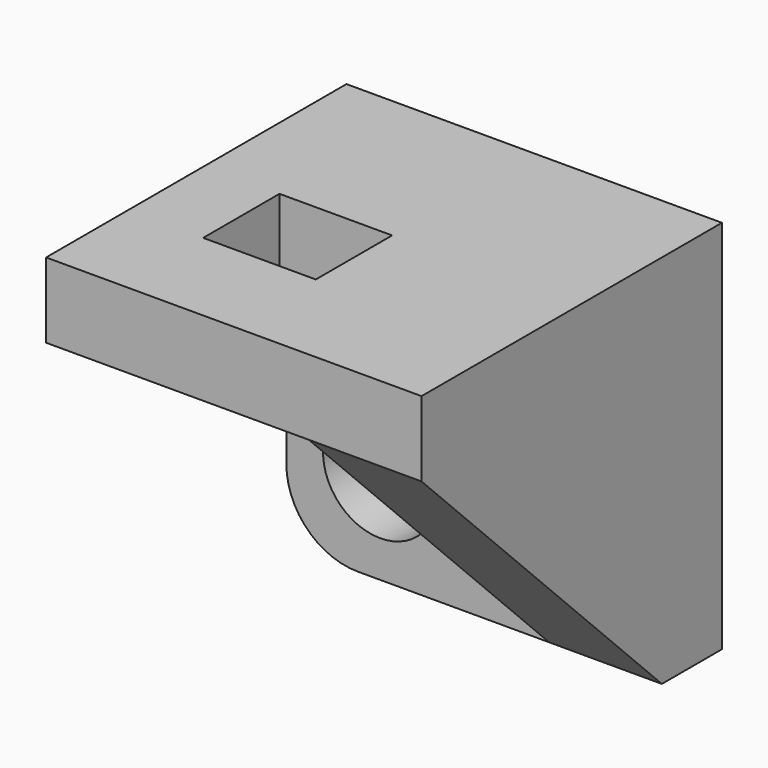
from build123d import *

# Parameters (mm, degrees)
F0_W      = 100
F0_H      = 100
F1_DEPTH  = 20
F2_W      = 100
F2_H      = 20
F3_DEPTH  = 80
F4_W      = 30
F4_H      = 80
F5_DEPTH  = 80
F6_SIZE2  = 80
F6_SIZE   = 80
F7_W      = 15
F7_H      = 12.7048021555
F8_DEPTH  = 127
F10_DEPTH = 1143
F11_R     = 15.2311965997
F12_DEPTH = 254
F13_R     = 19.0095175901


with BuildPart() as f1:
    # F0 (on Front) → F1 (new body)
    with BuildSketch(Plane.XZ):
        Rectangle(F0_W, F0_H)
    extrude(amount=F1_DEPTH)

    # F2 (on face) → F3 (join)
    with BuildSketch(Plane.XZ.offset(20)):
        with Locations((0, 40)):
            Rectangle(F2_W, F2_H)
    extrude(amount=F3_DEPTH)

    # F4 (on face) → F5 (join)
    with BuildSketch(Plane.XZ.offset(20)):
        with Locations((35, -10)):
            Rectangle(F4_W, F4_H)
    extrude(amount=F5_DEPTH)

    # F6
    f6_edges = [f1.edges().sort_by_distance(p)[0] for p in [
        (35, -100, -50),
    ]]
    chamfer(f6_edges, length=F6_SIZE, length2=F6_SIZE2)

    # F7 (on face) → F8 (cut)
    with BuildSketch(Plane(origin=(0, 0, 30), x_dir=(1, 0, 0), z_dir=(0, 0, -1))):
        with Locations((-22.5, 66.3524010777)):
            Rectangle(F7_W, F7_H)
        with Locations((-22.5, 53.6475989223)):
            Rectangle(F7_W, F7_H)
        with Locations((-7.5, 53.6475989223)):
            Rectangle(F7_W, F7_H)
        with Locations((-7.5, 66.3524010777)):
            Rectangle(F7_W, F7_H)
    extrude(amount=-F8_DEPTH, mode=Mode.SUBTRACT)

    # F9 (on face) → F10 (cut)
    with BuildSketch(Plane.XZ.offset(20)):
        with BuildLine():
            Line((-25, -25), (-40, -25))
            ThreePointArc((-40, -25), (-35.6066017178, -35.6066017178), (-25, -40))
            Line((-25, -40), (-25, -25))
        make_face()
    extrude(amount=-F10_DEPTH, mode=Mode.SUBTRACT)

    # F11 (on face) → F12 (cut)
    with BuildSketch(Plane.XZ.offset(20)):
        with Locations((-25, -25)):
            Circle(F11_R)
        with BuildLine():
            Line((-40, -25), (-25, -25))
            Line((-25, -25), (-25, -40))
            ThreePointArc((-25, -40), (-35.6066017178, -35.6066017178), (-40, -25))
        make_face(mode=Mode.SUBTRACT)
        with Locations((-25, -25)):
            Circle(F11_R)
    extrude(amount=-F12_DEPTH, mode=Mode.SUBTRACT)

    # F13
    f13_edges = [f1.edges().sort_by_distance(p)[0] for p in [
        (-50, -10, -50),
    ]]
    fillet(f13_edges, radius=F13_R)


solid = f1.part
